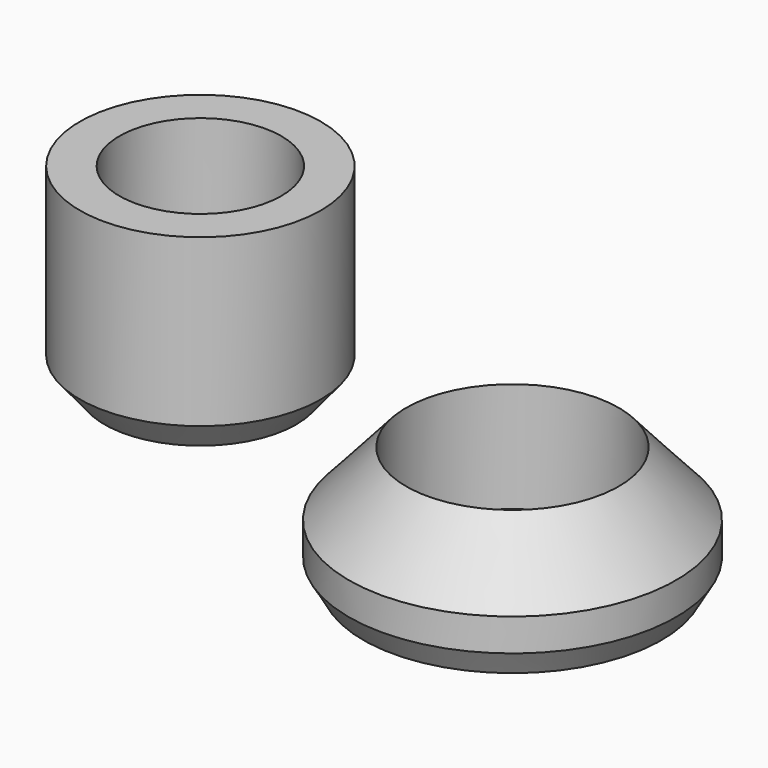
from build123d import *

# Parameters (mm, degrees)
F5_SIZE2 = 10.9985226281
F5_SIZE  = 6.35
F6_SIZE2 = 5.08
F6_SIZE  = 5.08


with BuildPart() as f4:
    # F3 (on Right) → F4 (revolve)
    with BuildSketch(Plane.YZ):
        Polygon((0, 25.4), (0, 0), (25.4, 0), (25.4, 25.4), (0, 53.7980633142), align=None)
    revolve(axis=Axis((0, -47.1823625267, 43.7326766551), (0, 0, 1)))

    # F5
    f5_edges = [f4.edges().sort_by_distance(p)[0] for p in [
        (0, -119.764725, 0),
    ]]
    chamfer(f5_edges, length=F5_SIZE, length2=F5_SIZE2)

    # F6
    f6_edges = [f4.edges().sort_by_distance(p)[0] for p in [
        (0, -94.364725, 0),
    ]]
    chamfer(f6_edges, length=F6_SIZE, length2=F6_SIZE2)


with BuildPart() as f8:
    # F7 (on Front) → F8 (revolve)
    with BuildSketch(Plane.XZ):
        Polygon((-140.2320563793, 17.0893389732), (-150.6342887878, 0), (-133.6124539375, 0), (-122.7373853326, 13.3067052811), (-122.7373853326, 87.068028748), (-140.2320563793, 87.068028748), align=None)
    revolve(axis=Axis((-176.1670559645, 0, 51.8085211515), (0, 0, 1)))


solid = Compound([f4.part, f8.part])
